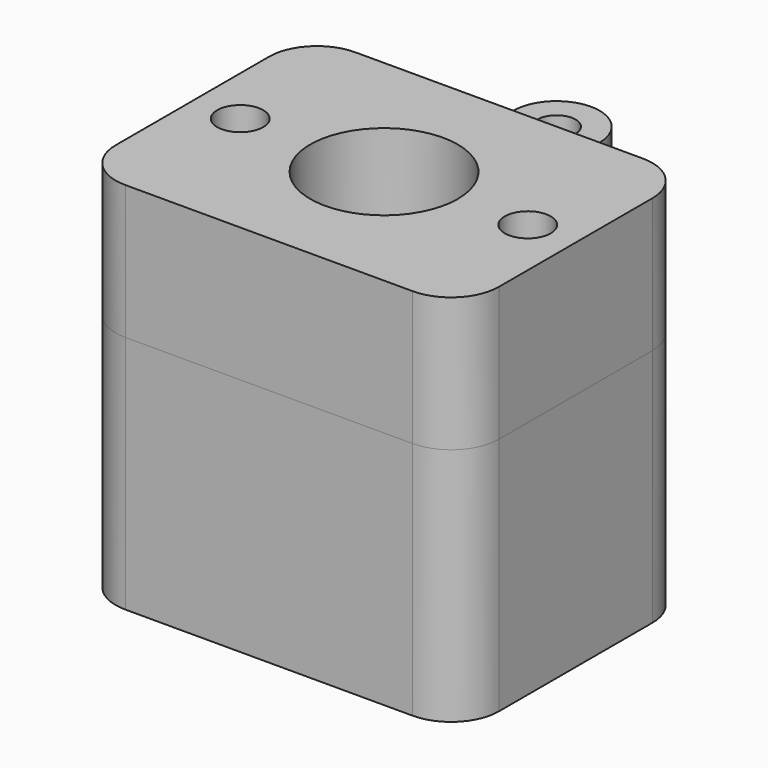
from build123d import *

# Parameters (mm, degrees)
F0_R     = 1.524
F0_R_2   = 4.8895
F1_DEPTH = 8.89
F0_R_3   = 2.8575
F2_DEPTH = 2.54
F0_R_4   = 1.27
F3_DEPTH = 5.715
F4_R     = 4.8895
F5_DEPTH = 15.875
F6_DEPTH = 14.4145


with BuildPart() as f1:
    # F0 (on Top) → F1 (new body)
    with BuildSketch(Plane.XY):
        with BuildLine():
            Line((-9.525, -9.525), (9.525, -9.525))
            ThreePointArc((9.525, -9.525), (11.770064, -8.595064), (12.7, -6.35))
            Line((12.7, -6.35), (12.7, 6.35))
            ThreePointArc((12.7, 6.35), (11.770064, 8.595064), (9.525, 9.525))
            Line((9.525, 9.525), (4.762421, 9.525))
            Line((4.762421, 9.525), (0, 9.525))
            Line((0, 9.525), (-4.759377, 9.525))
            Line((-4.759377, 9.525), (-9.525, 9.525))
            ThreePointArc((-9.525, 9.525), (-11.770064, 8.595064), (-12.7, 6.35))
            Line((-12.7, 6.35), (-12.7, -6.35))
            ThreePointArc((-12.7, -6.35), (-11.770064, -8.595064), (-9.525, -9.525))
        make_face()
        with Locations((-9.525, 0)):
            Circle(F0_R, mode=Mode.SUBTRACT)
        Circle(F0_R_2, mode=Mode.SUBTRACT)
        with Locations((9.525, 0)):
            Circle(F0_R, mode=Mode.SUBTRACT)
    extrude(amount=F1_DEPTH)

    # F0 (on Top) → F2 (join)
    with BuildSketch(Plane.XY):
        with BuildLine():
            Line((0, 9.525), (4.762421, 9.525))
            Line((4.762421, 9.525), (4.762421, 14.260068))
            ThreePointArc((4.762421, 14.260068), (3.357883, 10.910219), (0, 9.525))
        make_face()
        with BuildLine():
            Line((-4.759377, 14.115061), (-4.759377, 9.525))
            Line((-4.759377, 9.525), (0, 9.525))
            ThreePointArc((0, 9.525), (-3.306067, 10.859479), (-4.759377, 14.115061))
        make_face()
        with BuildLine():
            ThreePointArc((-4.759377, 14.115061), (-3.306067, 10.859479), (0, 9.525))
            ThreePointArc((0, 9.525), (3.357883, 10.910219), (4.762421, 14.260068))
            ThreePointArc((4.762421, 14.260068), (4.76248, 14.273784), (4.7625, 14.2875))
            ThreePointArc((4.7625, 14.2875), (-0.086234, 19.049219), (-4.759377, 14.115061))
        make_face()
        with Locations((0, 14.2875)):
            Circle(F0_R_3, mode=Mode.SUBTRACT)
    extrude(amount=F2_DEPTH)

    # F0 (on Top) → F3 (join)
    with BuildSketch(Plane.XY):
        with Locations((0, 14.2875)):
            Circle(F0_R_3)
        with Locations((0, 14.2875)):
            Circle(F0_R_4, mode=Mode.SUBTRACT)
    extrude(amount=F3_DEPTH)


with BuildPart() as f5:
    # F4 (on face) → F5 (new body)
    with BuildSketch(Plane.XY):
        with BuildLine():
            Line((-9.525, -9.525), (9.525, -9.525))
            ThreePointArc((9.525, -9.525), (11.770064, -8.595064), (12.7, -6.35))
            Line((12.7, -6.35), (12.7, 6.35))
            ThreePointArc((12.7, 6.35), (11.770064, 8.595064), (9.525, 9.525))
            Line((9.525, 9.525), (4.762421, 9.525))
            Line((4.762421, 9.525), (0, 9.525))
            Line((0, 9.525), (-4.759377, 9.525))
            Line((-4.759377, 9.525), (-9.525, 9.525))
            ThreePointArc((-9.525, 9.525), (-11.770064, 8.595064), (-12.7, 6.35))
            Line((-12.7, 6.35), (-12.7, -6.35))
            ThreePointArc((-12.7, -6.35), (-11.770064, -8.595064), (-9.525, -9.525))
        make_face()
        with BuildLine():
            Line((10.9855, 3.6195), (10.9855, 1.223096))
            Line((10.9855, 1.223096), (10.9855, 0.435334))
            ThreePointArc((10.9855, 0.435334), (11.033041, 0.21997), (11.049, 0))
            ThreePointArc((11.049, 0), (11.033041, -0.21997), (10.9855, -0.435334))
            Line((10.9855, -0.435334), (10.9855, -1.223096))
            Line((10.9855, -1.223096), (10.9855, -3.6195))
            Line((10.9855, -3.6195), (10.9855, -6.35))
            ThreePointArc((10.9855, -6.35), (10.557729, -7.382729), (9.525, -7.8105))
            Line((9.525, -7.8105), (-9.525, -7.8105))
            ThreePointArc((-9.525, -7.8105), (-10.557729, -7.382729), (-10.9855, -6.35))
            Line((-10.9855, -6.35), (-10.9855, -3.6195))
            Line((-10.9855, -3.6195), (-10.9855, -1.223096))
            Line((-10.9855, -1.223096), (-10.9855, -0.435334))
            ThreePointArc((-10.9855, -0.435334), (-11.049, 0), (-10.9855, 0.435334))
            Line((-10.9855, 0.435334), (-10.9855, 1.223096))
            Line((-10.9855, 1.223096), (-10.9855, 3.6195))
            Line((-10.9855, 3.6195), (-10.9855, 6.35))
            ThreePointArc((-10.9855, 6.35), (-10.557729, 7.382729), (-9.525, 7.8105))
            Line((-9.525, 7.8105), (9.525, 7.8105))
            ThreePointArc((9.525, 7.8105), (10.557729, 7.382729), (10.9855, 6.35))
            Line((10.9855, 6.35), (10.9855, 3.6195))
        make_face(mode=Mode.SUBTRACT)
        with BuildLine():
            Line((-9.525, 3.6195), (-10.9855, 3.6195))
            Line((-10.9855, 3.6195), (-10.9855, 1.223096))
            ThreePointArc((-10.9855, 1.223096), (-7.62, 0), (-10.9855, -1.223096))
            Line((-10.9855, -1.223096), (-10.9855, -3.6195))
            Line((-10.9855, -3.6195), (-9.525, -3.6195))
            ThreePointArc((-9.525, -3.6195), (-5.9055, 0), (-9.525, 3.6195))
        make_face()
        with BuildLine():
            ThreePointArc((10.9855, -1.223096), (7.62, 0), (10.9855, 1.223096))
            Line((10.9855, 1.223096), (10.9855, 3.6195))
            Line((10.9855, 3.6195), (9.525, 3.6195))
            ThreePointArc((9.525, 3.6195), (5.9055, 0), (9.525, -3.6195))
            Line((9.525, -3.6195), (10.9855, -3.6195))
            Line((10.9855, -3.6195), (10.9855, -1.223096))
        make_face()
        with BuildLine():
            Line((9.525, 3.6195), (10.9855, 3.6195))
            Line((10.9855, 3.6195), (10.9855, 6.35))
            ThreePointArc((10.9855, 6.35), (10.557729, 7.382729), (9.525, 7.8105))
            Line((9.525, 7.8105), (-9.525, 7.8105))
            ThreePointArc((-9.525, 7.8105), (-10.557729, 7.382729), (-10.9855, 6.35))
            Line((-10.9855, 6.35), (-10.9855, 3.6195))
            Line((-10.9855, 3.6195), (-9.525, 3.6195))
            ThreePointArc((-9.525, 3.6195), (-5.9055, 0), (-9.525, -3.6195))
            Line((-9.525, -3.6195), (-10.9855, -3.6195))
            Line((-10.9855, -3.6195), (-10.9855, -6.35))
            ThreePointArc((-10.9855, -6.35), (-10.557729, -7.382729), (-9.525, -7.8105))
            Line((-9.525, -7.8105), (9.525, -7.8105))
            ThreePointArc((9.525, -7.8105), (10.557729, -7.382729), (10.9855, -6.35))
            Line((10.9855, -6.35), (10.9855, -3.6195))
            Line((10.9855, -3.6195), (9.525, -3.6195))
            ThreePointArc((9.525, -3.6195), (5.9055, 0), (9.525, 3.6195))
        make_face()
        Circle(F4_R, mode=Mode.SUBTRACT)
        Circle(F4_R)
    extrude(amount=-F5_DEPTH)

    # F4 (on face) → F6 (cut)
    with BuildSketch(Plane.XY):
        with BuildLine():
            Line((9.525, 3.6195), (10.9855, 3.6195))
            Line((10.9855, 3.6195), (10.9855, 6.35))
            ThreePointArc((10.9855, 6.35), (10.557729, 7.382729), (9.525, 7.8105))
            Line((9.525, 7.8105), (-9.525, 7.8105))
            ThreePointArc((-9.525, 7.8105), (-10.557729, 7.382729), (-10.9855, 6.35))
            Line((-10.9855, 6.35), (-10.9855, 3.6195))
            Line((-10.9855, 3.6195), (-9.525, 3.6195))
            ThreePointArc((-9.525, 3.6195), (-5.9055, 0), (-9.525, -3.6195))
            Line((-9.525, -3.6195), (-10.9855, -3.6195))
            Line((-10.9855, -3.6195), (-10.9855, -6.35))
            ThreePointArc((-10.9855, -6.35), (-10.557729, -7.382729), (-9.525, -7.8105))
            Line((-9.525, -7.8105), (9.525, -7.8105))
            ThreePointArc((9.525, -7.8105), (10.557729, -7.382729), (10.9855, -6.35))
            Line((10.9855, -6.35), (10.9855, -3.6195))
            Line((10.9855, -3.6195), (9.525, -3.6195))
            ThreePointArc((9.525, -3.6195), (5.9055, 0), (9.525, 3.6195))
        make_face()
        Circle(F4_R, mode=Mode.SUBTRACT)
        Circle(F4_R)
    extrude(amount=-F6_DEPTH, mode=Mode.SUBTRACT)


solid = Compound([f1.part, f5.part])
